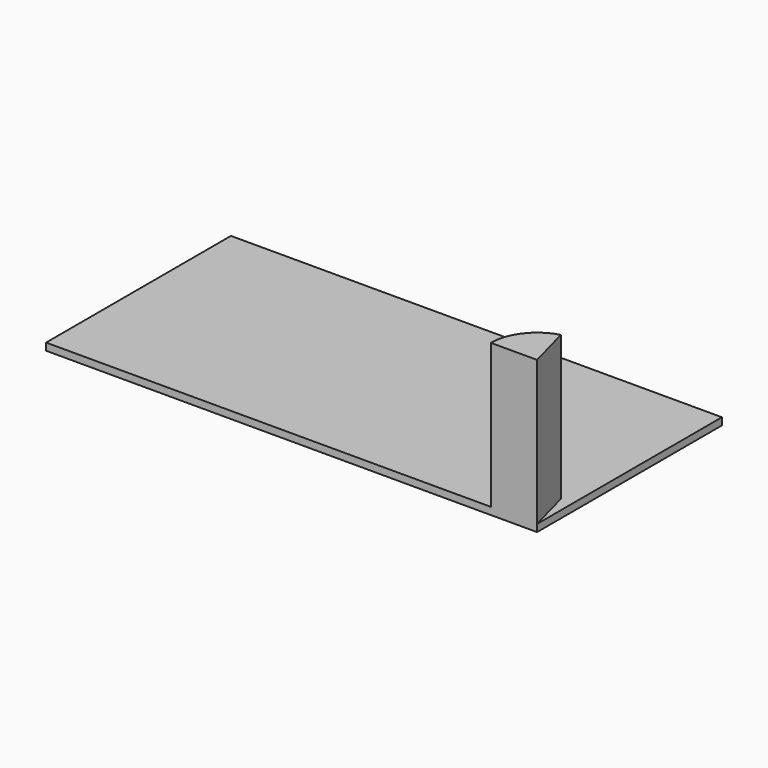
from build123d import *

# Parameters (mm, degrees)
F0_W      = 8500
F0_H      = 4000
F1_DEPTH  = 100
F1_FACE_W = 8500
F1_FACE_H = 4000
F2_DEPTH  = 25
F4_DEPTH  = 2500


with BuildPart() as f1:
    # F0 (on Top) → F1 (new body)
    with BuildSketch(Plane.XY):
        Rectangle(F0_W, F0_H)
    extrude(amount=F1_DEPTH)

    # F1_face (on face) → F2 (join)
    with BuildSketch(Plane.XY.offset(100)):
        Rectangle(F1_FACE_W, F1_FACE_H)
    extrude(amount=F2_DEPTH)

    # F3 (on face) → F4 (join)
    with BuildSketch(Plane.XY.offset(125)):
        with BuildLine():
            Line((3450, -2000), (4250, -2000))
            Line((4250, -2000), (4042.944764, -1227.259339))
            ThreePointArc((4042.944764, -1227.259339), (3615.317328, -1512.990857), (3450, -2000))
        make_face()
    extrude(amount=F4_DEPTH)


solid = f1.part
